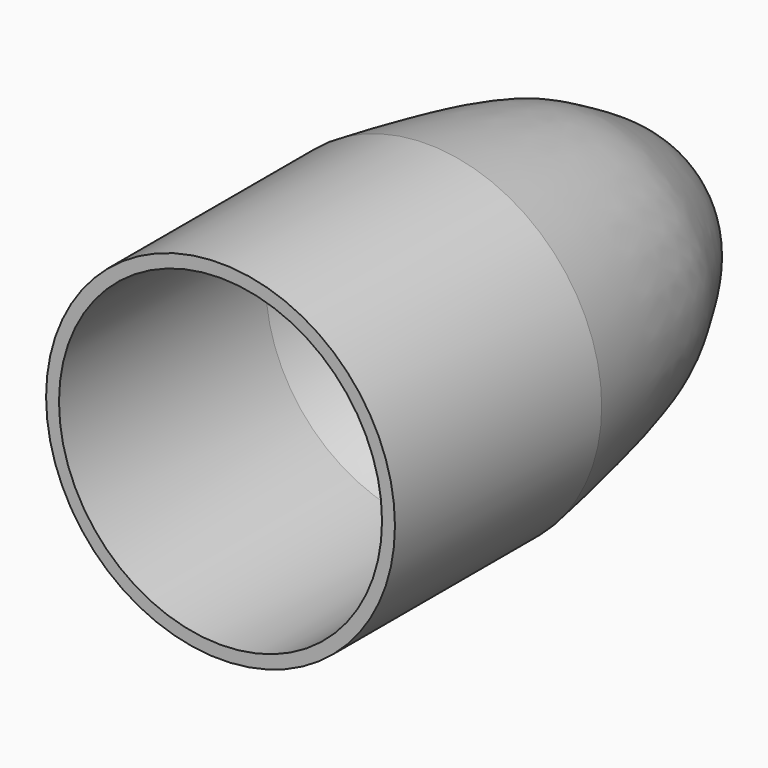
from build123d import *


with BuildPart() as part:
    # Sketch → Revolution (revolve)
    with BuildSketch(Plane.XY):
        with BuildLine():
            Line((37.5, 0), (40.5, 0))
            Line((40.5, 0), (40.5, 60))
            add(Edge.make_bspline(
                [(40.5, 60), (34.5, 97), (28.5, 107), (16.5, 129), (0, 130), (0, 130)],
                knots=[0, 0, 0, 0, 0.333333, 0.666667, 1, 1, 1, 1], degree=3))
            Line((0, 130), (0, 127))
            add(Edge.make_bspline(
                [(37.5, 60), (31.686817, 95.957886), (25.909429, 105.487074), (13.85286, 127.588387), (0, 127)],
                knots=[0, 0, 0, 0, 0.5, 1, 1, 1, 1], degree=3))
            Line((37.5, 60), (37.5, 0))
        make_face()
    revolve(axis=Axis((0, 0, 0), (0, 1, 0)))


solid = part.part
